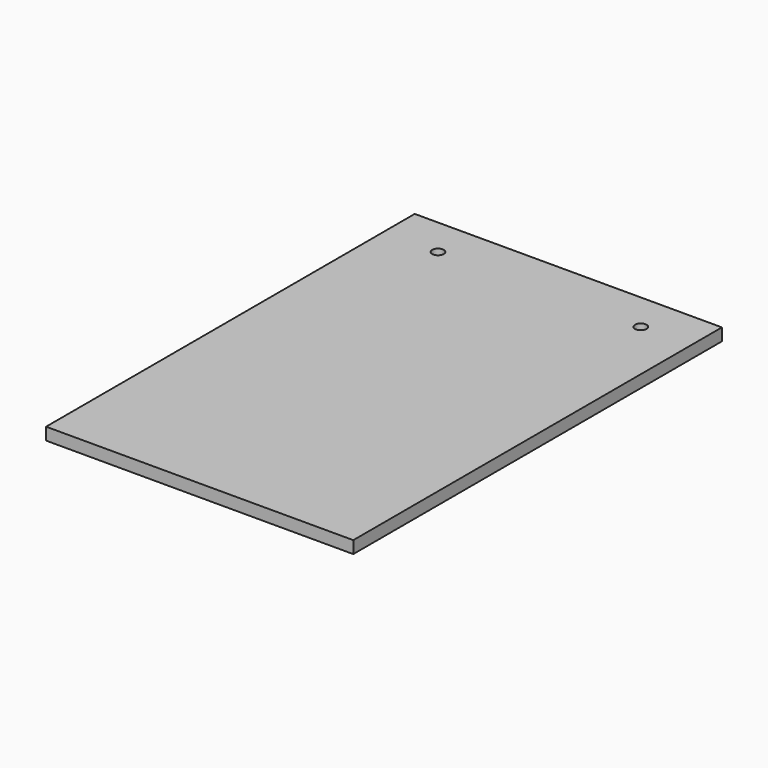
from build123d import *

# Parameters (mm, degrees)
F0_W           = 101.6
F0_H           = 152.4
F1_DEPTH       = 4.064
F3_D           = 3.81
F3_CBORE_D     = 3.81
F3_CBORE_DEPTH = 0.254


with BuildPart() as f1:
    # F0 (on Top) → F1 (new body)
    with BuildSketch(Plane.XY):
        with Locations((-21.8529518461, 11.7647650868)):
            Rectangle(F0_W, F0_H)
    extrude(amount=F1_DEPTH)

    # F3 (through all)
    with Locations(Plane(origin=(0, 0, 0), x_dir=(1, 0, 0), z_dir=(0, 0, -1))):
        with Locations((12.402757071, -75.1100108027), (-54.6733736992, -75.1100108027)):
            CounterBoreHole(F3_D / 2, F3_CBORE_D / 2, F3_CBORE_DEPTH)


solid = f1.part
